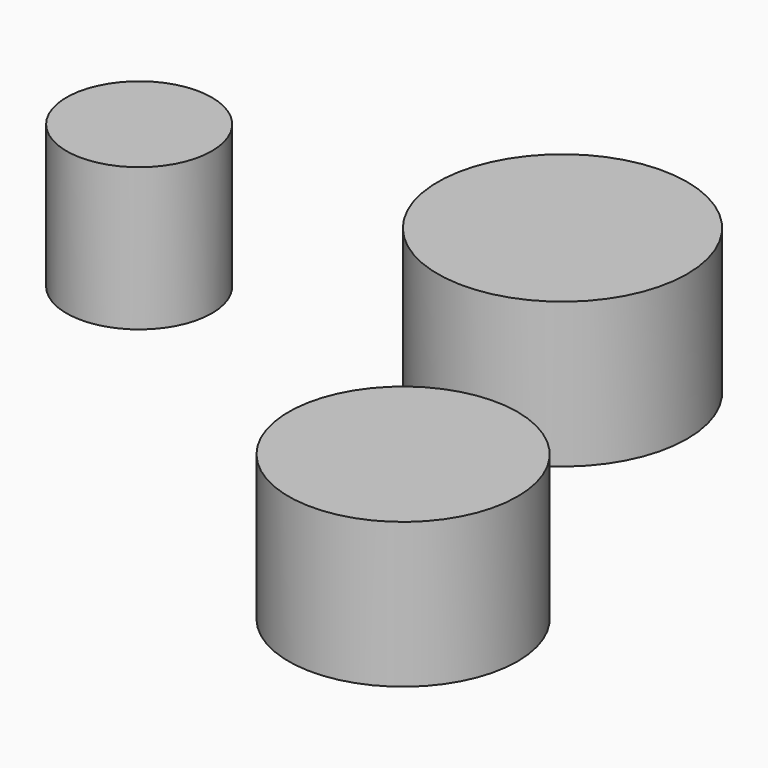
from build123d import *

# Parameters (mm, degrees)
F0_R     = 20.041176
F0_R_2   = 21.825383
F1_DEPTH = 25.4
F2_R     = 12.721916
F3_DEPTH = 25


with BuildPart() as f1:
    # F0 (on Top) → F1 (new body)
    with BuildSketch(Plane.XY):
        Circle(F0_R)
        with Locations((-24.816439, 65.895483)):
            Circle(F0_R_2)
    extrude(amount=F1_DEPTH)


with BuildPart() as f3:
    # F2 (on face) → F3 (new body)
    with BuildSketch(Plane.XY.offset(25.4)):
        with Locations((-59.172947, 16.228132)):
            Circle(F2_R)
    extrude(amount=F3_DEPTH)


solid = Compound([f1.part, f3.part])
